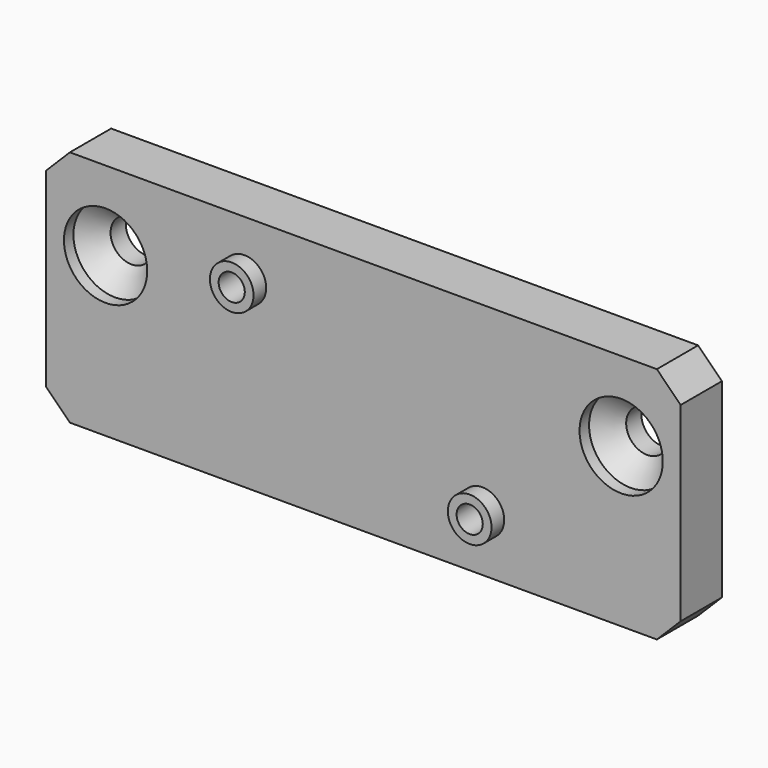
from build123d import *

# Parameters (mm, degrees)
SKETCH003_W      = 80
SKETCH003_H      = 30
PAD001_DEPTH     = 6.5
SKETCH004_R      = 5.25
POCKET002_DEPTH  = 1.5
HOLE_D           = 5.3
HOLE_CSINK_D     = 10.5
HOLE_CSINK_ANGLE = 90
SKETCH006_R      = 2.75
PAD002_DEPTH     = 1.997284
SKETCH007_R      = 2.75
PAD003_DEPTH     = 1.997284
SKETCH008_R      = 1.65
POCKET003_DEPTH  = 8.498284
SKETCH009_R      = 1.65
POCKET004_DEPTH  = 8.498284
POCKET005_DEPTH  = 4
POCKET006_DEPTH  = 4
CHAMFER_SIZE     = 0.5
CHAMFER001_SIZE  = 3


with BuildPart() as part:
    # Sketch003 → Pad001 (new body)
    with BuildSketch(Plane.XZ):
        with Locations((0, -5)):
            Rectangle(SKETCH003_W, SKETCH003_H)
    extrude(amount=PAD001_DEPTH)

    # Sketch004 (on Face6 of Pad001) → Pocket002 (cut)
    with BuildSketch(Plane.XZ.offset(6.5)):
        with Locations((-32.5, 0)):
            Circle(SKETCH004_R)
    pocket002 = extrude(amount=-POCKET002_DEPTH, mode=Mode.SUBTRACT)

    # Mirrored: Pocket002 across Sketch004 V_Axis
    add(pocket002.mirror(Plane(origin=(0, -6.5, 0), x_dir=(0, -1, 0), z_dir=(1, 0, 0))), mode=Mode.SUBTRACT)

    # Hole (through all)
    with Locations(Plane.XZ.offset(5)):
        with Locations((-32.5, 0)):
            hole = CounterSinkHole(HOLE_D / 2, HOLE_CSINK_D / 2, counter_sink_angle=HOLE_CSINK_ANGLE)

    # Mirrored001: Hole across Sketch005 V_Axis
    add(hole.mirror(Plane(origin=(0, -5, 0), x_dir=(0, -1, 0), z_dir=(1, 0, 0))), mode=Mode.SUBTRACT)

    # Sketch006 (on Face5 of Mirrored001) → Pad002 (join)
    with BuildSketch(Plane.XZ.offset(6.5)):
        with Locations((-15, 2.997284)):
            Circle(SKETCH006_R)
    extrude(amount=PAD002_DEPTH)

    # Sketch007 (on Face5 of Pad002) → Pad003 (join)
    with BuildSketch(Plane.XZ.offset(6.5)):
        with Locations((15, -13.002716)):
            Circle(SKETCH007_R)
    extrude(amount=PAD003_DEPTH)

    # Sketch008 (on Face15 of Pad003) → Pocket003 (cut, through all)
    with BuildSketch(Plane.XZ.offset(8.497284)):
        with Locations((-15, 2.997284)):
            Circle(SKETCH008_R)
    extrude(amount=-POCKET003_DEPTH, mode=Mode.SUBTRACT)

    # Sketch009 (on Face17 of Pocket003) → Pocket004 (cut, through all)
    with BuildSketch(Plane.XZ.offset(8.497284)):
        with Locations((15, -13.002716)):
            Circle(SKETCH009_R)
    extrude(amount=-POCKET004_DEPTH, mode=Mode.SUBTRACT)

    # Sketch010 (on Face4 of Pocket004) → Pocket005 (cut)
    with BuildSketch(Plane(origin=(0, 0, 0), x_dir=(1, 0, 0), z_dir=(0, 1, 0))):
        Polygon((13.354552, 15.852716), (11.709103, 13.002716), (13.354552, 10.152716), (16.645448, 10.152716), (18.290897, 13.002716), (16.645448, 15.852716), align=None)
    extrude(amount=-POCKET005_DEPTH, mode=Mode.SUBTRACT)

    # Sketch011 (on Face4 of Pocket005) → Pocket006 (cut)
    with BuildSketch(Plane(origin=(0, 0, 0), x_dir=(1, 0, 0), z_dir=(0, 1, 0))):
        Polygon((-16.645448, -0.147284), (-18.290897, -2.997284), (-16.645448, -5.847284), (-13.354552, -5.847284), (-11.709103, -2.997284), (-13.354552, -0.147284), align=None)
    extrude(amount=-POCKET006_DEPTH, mode=Mode.SUBTRACT)

    # Chamfer
    chamfer_edges = [part.edges().sort_by_distance(p)[0] for p in [
        (-17.468172, 0, 4.422284),
        (-17.468172, 0, 1.572284),
        (-15, 0, 0.147284),
        (-12.531828, 0, 1.572284),
        (-12.531828, 0, 4.422284),
        (-15, 0, 5.847284),
        (12.531828, 0, -11.577716),
        (12.531828, 0, -14.427716),
        (15, 0, -15.852716),
        (17.468172, 0, -14.427716),
        (17.468172, 0, -11.577716),
        (15, 0, -10.152716),
    ]]
    chamfer(chamfer_edges, length=CHAMFER_SIZE)

    # Chamfer001
    chamfer001_edges = [part.edges().sort_by_distance(p)[0] for p in [
        (40, -3.25, 10),
        (40, -3.25, -20),
        (-40, -3.25, -20),
        (-40, -3.25, 10),
    ]]
    chamfer(chamfer001_edges, length=CHAMFER001_SIZE)


with BuildPart() as part_1:
    # Body002 placement: moved
    add(part.part.moved(Location((0, -10, 0))))


solid = part_1.part
